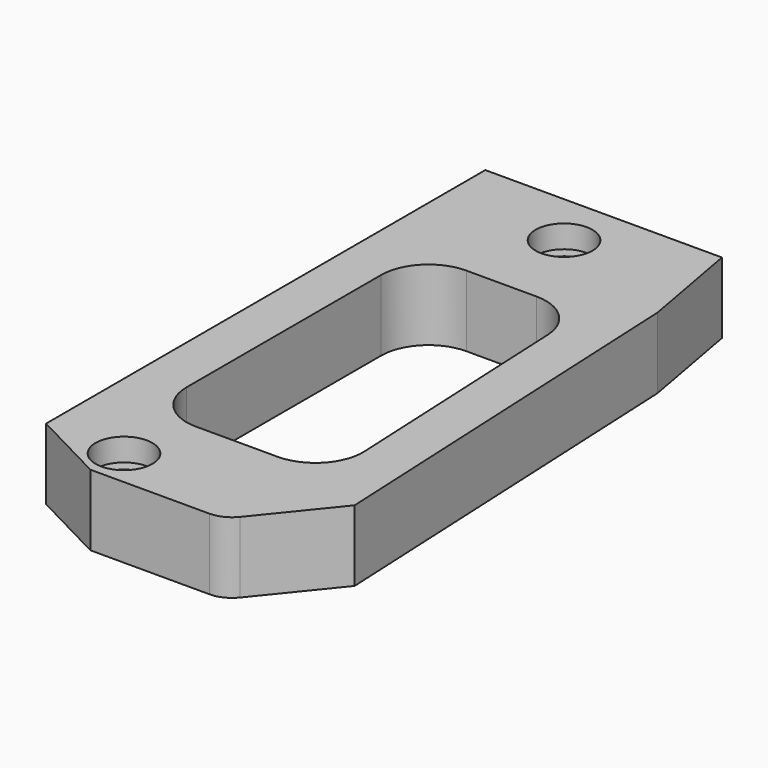
from build123d import *

# Parameters (mm, degrees)
F1_DEPTH = 7.5
F3_DEPTH = 7.5
F4_R     = 1.75
F5_DEPTH = 7.5
F6_R     = 3
F7_DEPTH = 2.4
F8_R     = 3
F9_R     = 5
F10_R    = 5
F11_R    = 5
F12_R    = 5


with BuildPart() as f1:
    # F0 (on Top) → F1 (new body)
    with BuildSketch(Plane.XY):
        Polygon((7.046259, 38.376067), (-17.953741, 38.376067), (-17.953741, -19.623933), (-9.953741, -23.773933), (4.046259, -23.773933), (11.046259, -15.123933), (9.046259, 27.376067), align=None)
    extrude(amount=F1_DEPTH)

    # F2 (on face) → F3 (cut, through all)
    with BuildSketch(Plane.XY.offset(7.5)):
        Polygon((4.228961, 23.376067), (-12.953741, 23.376067), (-12.953741, -12.323933), (5.908961, -12.323933), align=None)
    extrude(amount=-F3_DEPTH, mode=Mode.SUBTRACT)

    # F4 (on face) → F5 (cut, through all)
    with BuildSketch(Plane.XY.offset(7.5)):
        with Locations((-5.053741, 32.646067)):
            Circle(F4_R)
        with Locations((-9.603741, -19.773933)):
            Circle(F4_R)
    extrude(amount=-F5_DEPTH, mode=Mode.SUBTRACT)

    # F6 (on face) → F7 (cut)
    with BuildSketch(Plane.XY.offset(7.5)):
        with Locations((-5.053741, 32.646067)):
            Circle(F6_R)
        with Locations((-9.603741, -19.773933)):
            Circle(F6_R)
    extrude(amount=-F7_DEPTH, mode=Mode.SUBTRACT)

    # F8
    f8_edges = [f1.edges().sort_by_distance(p)[0] for p in [
        (4.046259, -23.773933, 3.75),
    ]]
    fillet(f8_edges, radius=F8_R)

    # F9
    f9_edges = [f1.edges().sort_by_distance(p)[0] for p in [
        (-12.953741, -12.323933, 3.75),
    ]]
    fillet(f9_edges, radius=F9_R)

    # F10
    f10_edges = [f1.edges().sort_by_distance(p)[0] for p in [
        (5.908961, -12.323933, 3.75),
    ]]
    fillet(f10_edges, radius=F10_R)

    # F11
    f11_edges = [f1.edges().sort_by_distance(p)[0] for p in [
        (-12.953741, 23.376067, 3.75),
    ]]
    fillet(f11_edges, radius=F11_R)

    # F12
    f12_edges = [f1.edges().sort_by_distance(p)[0] for p in [
        (4.228961, 23.376067, 3.75),
    ]]
    fillet(f12_edges, radius=F12_R)


solid = f1.part
